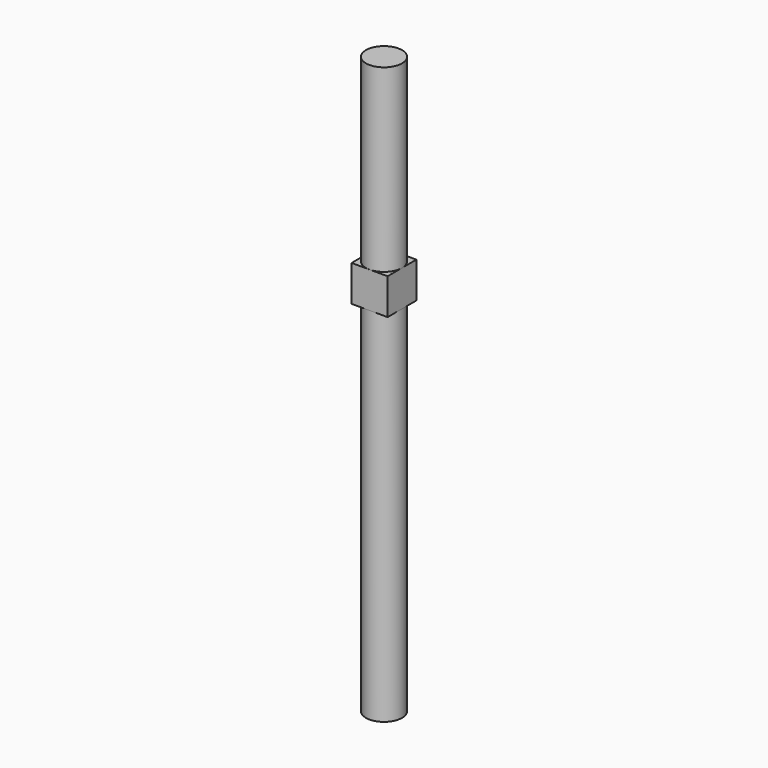
from build123d import *

# Parameters (mm, degrees)
CYLINDER_R        = 5
CYLINDER_DEPTH    = 50
BOX_W             = 10
BOX_H             = 10
BOX_DEPTH         = 10
CYLINDER001_R     = 5
CYLINDER001_DEPTH = 100


with BuildPart() as cylinder:
    # Cylinder → Cylinder (new body)
    with BuildSketch(Plane(origin=(5, 5, 10), x_dir=(1, 0, 0), z_dir=(0, 0, 1))):
        Circle(CYLINDER_R)
    extrude(amount=CYLINDER_DEPTH)


with BuildPart() as box:
    # Box → Box (new body)
    with BuildSketch(Plane.XY):
        with Locations((5, 5)):
            Rectangle(BOX_W, BOX_H)
    extrude(amount=BOX_DEPTH)


with BuildPart() as fusion:
    # Cylinder001 → Cylinder001 (new body)
    with BuildSketch(Plane(origin=(5, 5, -100), x_dir=(1, 0, 0), z_dir=(0, 0, 1))):
        Circle(CYLINDER001_R)
    extrude(amount=CYLINDER001_DEPTH)

    # Fusion: union Cylinder, Box
    add(cylinder.part)
    add(box.part)


with BuildPart() as fusion_1:
    # Fusion placement: moved
    add(fusion.part.moved(Location((-5, -5, 0))))


solid = fusion_1.part
